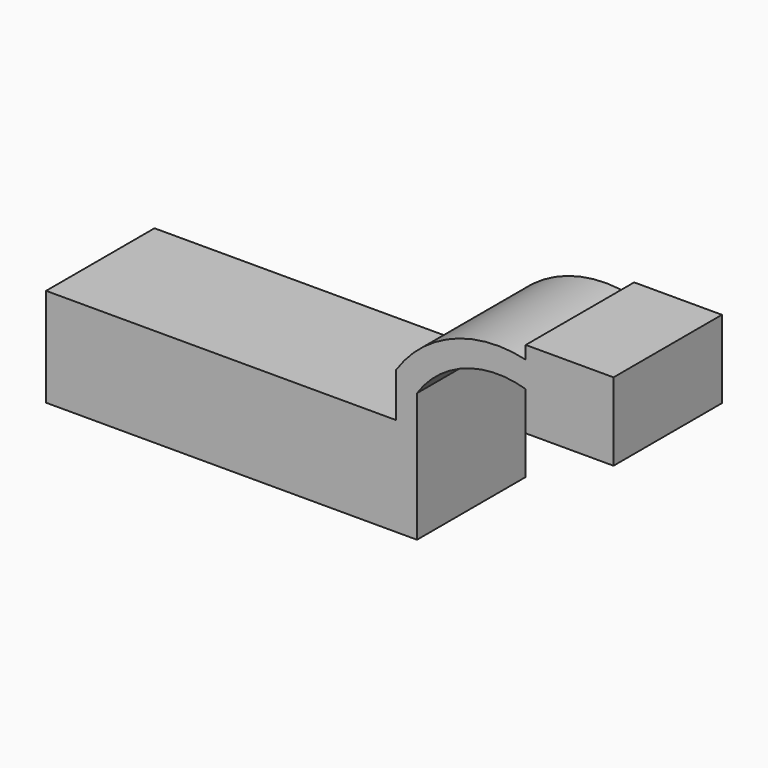
from build123d import *

# Parameters (mm, degrees)
F1_DEPTH = 45.466


with BuildPart() as f1:
    # F0 (on Front) → F1 (new body)
    with BuildSketch(Plane.XZ):
        with BuildLine():
            Line((55.947776, 30.447021), (55.947776, 15.562621))
            Line((55.947776, 15.562621), (62.924534, 15.562621))
            Line((62.924534, 15.562621), (62.924534, 25.801294))
            ThreePointArc((62.924534, 25.801294), (79.002371, 38.370504), (99.404424, 38.858484))
            Line((99.404424, 38.858484), (99.404424, 47.539211))
            ThreePointArc((99.404424, 47.539211), (74.99215, 45.817022), (55.947776, 30.447021))
        make_face()
        Polygon((99.404424, 51.915675), (99.404424, 47.539211), (99.404424, 38.858484), (99.404424, 25.801294), (128.852546, 25.801294), (128.852546, 51.915675), align=None)
        Polygon((55.947776, 15.562621), (-61.53547, 15.562621), (-61.53547, -17.497067), (62.924534, -17.497067), (62.924534, 15.562621), align=None)
    extrude(amount=F1_DEPTH)


solid = f1.part
